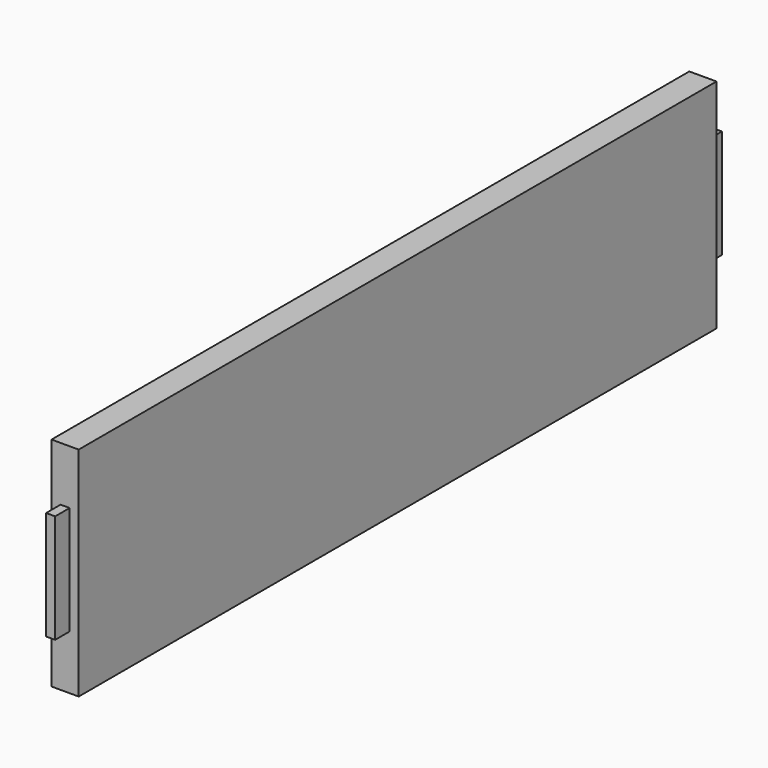
from build123d import *

# Parameters (mm, degrees)
F1_DEPTH = 19.05
F2_W     = 6.35
F2_H     = 76.2
F3_DEPTH = 12.7
F4_W     = 6.35
F4_H     = 76.2
F5_DEPTH = 12.7


with BuildPart() as f1:
    # F0 (on Right) → F1 (new body)
    with BuildSketch(Plane.YZ):
        Polygon((-279.4, -76.2), (279.4, -76.2), (279.4, -38.1), (292.1, -38.1), (292.1, 38.1), (279.4, 38.1), (279.4, 76.2), (-279.4, 76.2), (-279.4, 38.1), (-292.1, 38.1), (-292.1, -38.1), (-279.4, -38.1), align=None)
    extrude(amount=F1_DEPTH)

    # F2 (on face) → F3 (cut)
    with BuildSketch(Plane.XZ.offset(292.1)):
        with Locations((15.875, 0)):
            Rectangle(F2_W, F2_H)
        with Locations((3.175, 0)):
            Rectangle(F2_W, F2_H)
    extrude(amount=-F3_DEPTH, mode=Mode.SUBTRACT)

    # F4 (on face) → F5 (cut)
    with BuildSketch(Plane(origin=(0, 292.1, 0), x_dir=(-1, 0, 0), z_dir=(0, 1, 0))):
        with Locations((-3.175, 0)):
            Rectangle(F4_W, F4_H)
        with Locations((-15.875, 0)):
            Rectangle(F4_W, F4_H)
    extrude(amount=-F5_DEPTH, mode=Mode.SUBTRACT)


solid = f1.part
